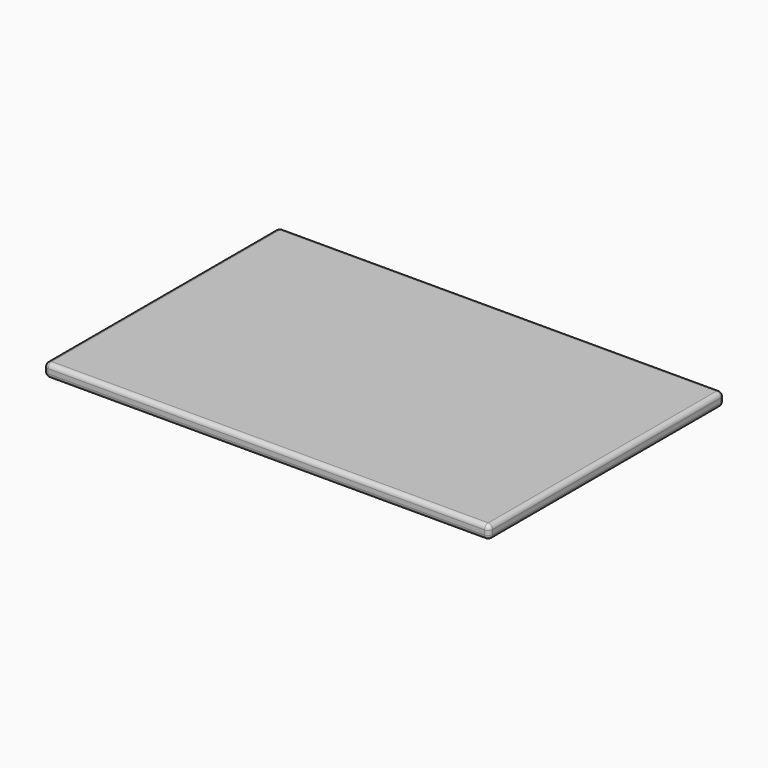
from build123d import *

# Parameters (mm, degrees)
F1_W     = 200
F1_H     = 132
F2_DEPTH = 6
F3_R     = 2


with BuildPart() as f2:
    # F1 (on face) → F2 (new body)
    with BuildSketch(Plane.XY):
        Rectangle(F1_W, F1_H)
    extrude(amount=F2_DEPTH)

    # F3
    f3_edges = [f2.edges().sort_by_distance(p)[0] for p in [
        (0, -66, 6),
        (100, 0, 6),
        (0, 66, 6),
        (-100, 0, 6),
        (-100, -66, 3),
        (0, -66, 0),
        (100, 0, 0),
        (0, 66, 0),
        (-100, 0, 0),
        (100, -66, 3),
        (100, 66, 3),
        (-100, 66, 3),
    ]]
    fillet(f3_edges, radius=F3_R)


solid = f2.part
